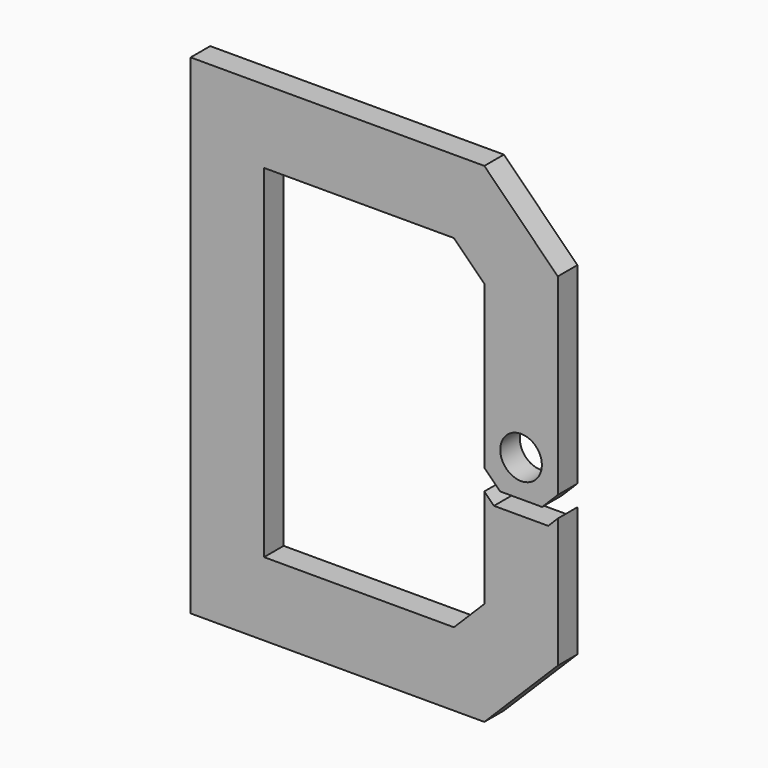
from build123d import *

# Parameters (mm, degrees)
F0_R     = 4.25
F1_DEPTH = 5


with BuildPart() as f1:
    # F0 (on Front) → F1 (new body)
    with BuildSketch(Plane.XZ):
        Polygon((0, 100), (0, 0), (60, 0), (75, 15), (75, 41.457359), (73.042641, 39.5), (61.957359, 39.5), (60, 41.457359), (60, 21.213203), (53.786797, 15), (15, 15), (15, 85), (53.786797, 85), (60, 78.786797), (60, 45.7), (63.2, 42.5), (71.8, 42.5), (75, 45.7), (75, 85), (60, 100), align=None)
        with Locations((67.5, 50)):
            Circle(F0_R, mode=Mode.SUBTRACT)
    extrude(amount=F1_DEPTH)


solid = f1.part
